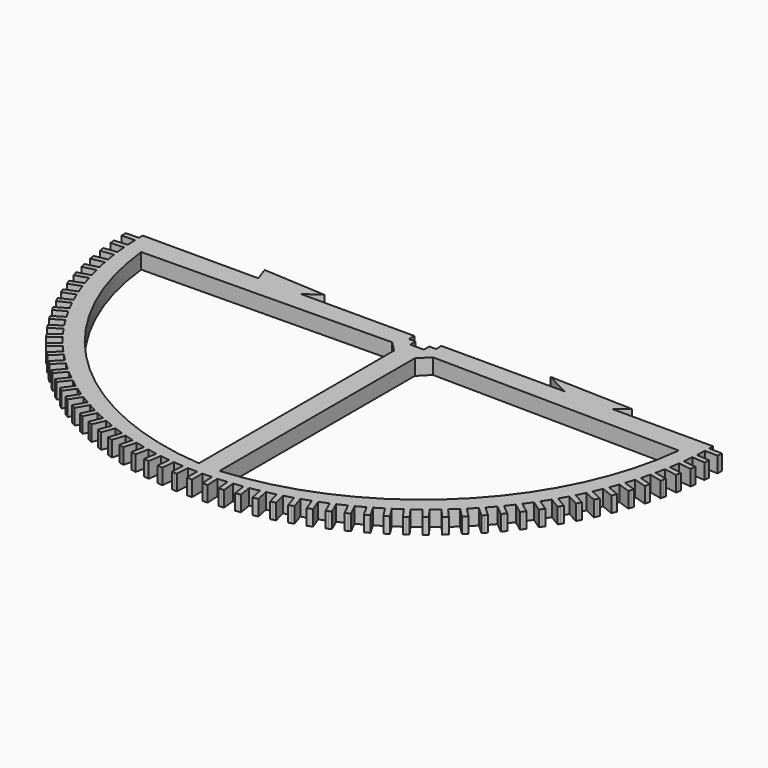
from build123d import *

# Parameters (mm, degrees)
F1_DEPTH = 3


with BuildPart() as f1:
    # F0 (on Top) → F1 (new body)
    with BuildSketch(Plane.XY):
        with BuildLine():
            Line((-54.992368, 0), (-54.992368, -0.916242))
            ThreePointArc((-54.992368, -0.916242), (-54.981766, -1.416135), (-54.96662, -1.915911))
            ThreePointArc((-54.96662, -1.915911), (-54.927075, -2.831332), (-54.872286, -3.745966))
            ThreePointArc((-54.872286, -3.745966), (-54.835964, -4.24465), (-54.79511, -4.742984))
            ThreePointArc((-54.79511, -4.742984), (-54.708493, -5.655155), (-54.606692, -6.565756))
            ThreePointArc((-54.606692, -6.565756), (-54.544747, -7.06191), (-54.478294, -7.557479))
            ThreePointArc((-54.478294, -7.557479), (-54.344834, -8.463982), (-54.196292, -9.368135))
            ThreePointArc((-54.196292, -9.368135), (-54.108887, -9.860442), (-54.017011, -10.351933))
            ThreePointArc((-54.017011, -10.351933), (-53.837063, -11.250364), (-53.642172, -12.145672))
            ThreePointArc((-53.642172, -12.145672), (-53.529541, -12.632826), (-53.412485, -13.118936))
            ThreePointArc((-53.412485, -13.118936), (-53.186525, -14.006912), (-52.945804, -14.891))
            ThreePointArc((-52.945804, -14.891), (-52.808243, -15.37171), (-52.666318, -15.85115))
            ThreePointArc((-52.666318, -15.85115), (-52.394946, -16.726316), (-52.109032, -17.59684))
            ThreePointArc((-52.109032, -17.59684), (-51.946908, -18.069831), (-51.78049, -18.541329))
            ThreePointArc((-51.78049, -18.541329), (-51.464425, -19.401365), (-51.134077, -20.256016))
            ThreePointArc((-51.134077, -20.256016), (-50.947818, -20.720034), (-50.757349, -21.18234))
            ThreePointArc((-50.757349, -21.18234), (-50.39743, -22.024965), (-50.023523, -22.861477))
            ThreePointArc((-50.023523, -22.861477), (-49.813624, -23.315291), (-49.599609, -23.767179))
            ThreePointArc((-49.599609, -23.767179), (-49.19679, -24.590159), (-48.780316, -25.406313))
            ThreePointArc((-48.780316, -25.406313), (-48.547334, -25.848721), (-48.310339, -26.288992))
            ThreePointArc((-48.310339, -26.288992), (-47.865688, -27.090144), (-47.407752, -27.883777))
            ThreePointArc((-47.407752, -27.883777), (-47.152305, -28.313604), (-46.89296, -28.741091))
            ThreePointArc((-46.89296, -28.741091), (-46.407656, -29.518291), (-45.909472, -30.287297))
            ThreePointArc((-45.909472, -30.287297), (-45.632236, -30.703405), (-45.351228, -31.116974))
            ThreePointArc((-45.351228, -31.116974), (-44.826559, -31.86816), (-44.289448, -32.610502))
            ThreePointArc((-44.289448, -32.610502), (-43.991158, -33.011785), (-43.689233, -33.410341))
            ThreePointArc((-43.689233, -33.410341), (-43.126589, -34.133522), (-42.551976, -34.847229))
            ThreePointArc((-42.551976, -34.847229), (-42.233425, -35.232625), (-41.911383, -35.615109))
            ThreePointArc((-41.911383, -35.615109), (-41.312256, -36.308367), (-40.701664, -36.991547))
            ThreePointArc((-40.701664, -36.991547), (-40.363695, -37.360034), (-40.022391, -37.725432))
            ThreePointArc((-40.022391, -37.725432), (-39.38837, -38.386929), (-38.743418, -39.037771))
            ThreePointArc((-38.743418, -39.037771), (-38.386929, -39.38837), (-38.027266, -39.735715))
            ThreePointArc((-38.027266, -39.735715), (-37.360034, -40.363695), (-36.682432, -40.980473))
            ThreePointArc((-36.682432, -40.980473), (-36.308367, -41.312256), (-35.9313, -41.640625))
            ThreePointArc((-35.9313, -41.640625), (-35.232625, -42.233425), (-34.524171, -42.814502))
            ThreePointArc((-34.524171, -42.814502), (-34.133522, -43.126589), (-33.740051, -43.435112))
            ThreePointArc((-33.740051, -43.435112), (-33.011785, -43.991158), (-32.274358, -44.534996))
            ThreePointArc((-32.274358, -44.534996), (-31.86816, -44.826559), (-31.459329, -45.114417))
            ThreePointArc((-31.459329, -45.114417), (-30.703405, -45.632236), (-29.938959, -46.13739))
            ThreePointArc((-29.938959, -46.13739), (-29.518291, -46.407656), (-29.095183, -46.674086))
            ThreePointArc((-29.095183, -46.674086), (-28.313604, -47.152305), (-27.524167, -47.617436))
            ThreePointArc((-27.524167, -47.617436), (-27.090144, -47.865688), (-26.653882, -48.109984))
            ThreePointArc((-26.653882, -48.109984), (-25.848721, -48.547334), (-25.036386, -48.97121))
            ThreePointArc((-25.036386, -48.97121), (-24.590159, -49.19679), (-24.141899, -49.418303))
            ThreePointArc((-24.141899, -49.418303), (-23.315291, -49.813624), (-22.482213, -50.19512))
            ThreePointArc((-22.482213, -50.19512), (-22.024965, -50.39743), (-21.565896, -50.595574))
            ThreePointArc((-21.565896, -50.595574), (-20.720034, -50.947818), (-19.868421, -51.285922))
            ThreePointArc((-19.868421, -51.285922), (-19.401365, -51.464425), (-18.932705, -51.638674))
            ThreePointArc((-18.932705, -51.638674), (-18.069831, -51.946908), (-17.201942, -52.240723))
            ThreePointArc((-17.201942, -52.240723), (-16.726316, -52.394946), (-16.249307, -52.544838))
            ThreePointArc((-16.249307, -52.544838), (-15.37171, -52.808243), (-14.489847, -53.056991))
            ThreePointArc((-14.489847, -53.056991), (-14.006912, -53.186525), (-13.522819, -53.311663))
            ThreePointArc((-13.522819, -53.311663), (-12.632826, -53.529541), (-11.739327, -53.732562))
            ThreePointArc((-11.739327, -53.732562), (-11.250364, -53.837063), (-10.760471, -53.937114))
            ThreePointArc((-10.760471, -53.937114), (-9.860442, -54.108887), (-8.957676, -54.265643))
            ThreePointArc((-8.957676, -54.265643), (-8.463982, -54.344834), (-7.969588, -54.419534))
            ThreePointArc((-7.969588, -54.419534), (-7.06191, -54.544747), (-6.152271, -54.654822))
            ThreePointArc((-6.152271, -54.654822), (-5.655155, -54.708493), (-5.157571, -54.757643))
            ThreePointArc((-5.157571, -54.757643), (-4.24465, -54.835964), (-3.330552, -54.899066))
            ThreePointArc((-3.330552, -54.899066), (-2.831332, -54.927075), (-2.331877, -54.950545))
            ThreePointArc((-2.331877, -54.950545), (-1.416135, -54.981766), (-0.5, -54.997727))
            ThreePointArc((-0.5, -54.997727), (0, -55), (0.5, -54.997727))
            ThreePointArc((0.5, -54.997727), (1.416135, -54.981766), (2.331877, -54.950545))
            ThreePointArc((2.331877, -54.950545), (2.831332, -54.927075), (3.330552, -54.899066))
            ThreePointArc((3.330552, -54.899066), (4.24465, -54.835964), (5.157571, -54.757643))
            ThreePointArc((5.157571, -54.757643), (5.655155, -54.708493), (6.152271, -54.654822))
            ThreePointArc((6.152271, -54.654822), (7.06191, -54.544747), (7.969588, -54.419534))
            ThreePointArc((7.969588, -54.419534), (8.463982, -54.344834), (8.957676, -54.265643))
            ThreePointArc((8.957676, -54.265643), (9.860442, -54.108887), (10.760471, -53.937114))
            ThreePointArc((10.760471, -53.937114), (11.250364, -53.837063), (11.739327, -53.732562))
            ThreePointArc((11.739327, -53.732562), (12.632826, -53.529541), (13.522819, -53.311663))
            ThreePointArc((13.522819, -53.311663), (14.006912, -53.186525), (14.489847, -53.056991))
            ThreePointArc((14.489847, -53.056991), (15.37171, -52.808243), (16.249307, -52.544838))
            ThreePointArc((16.249307, -52.544838), (16.726316, -52.394946), (17.201942, -52.240723))
            ThreePointArc((17.201942, -52.240723), (18.069831, -51.946908), (18.932705, -51.638674))
            ThreePointArc((18.932705, -51.638674), (19.401365, -51.464425), (19.868421, -51.285922))
            ThreePointArc((19.868421, -51.285922), (20.720034, -50.947818), (21.565896, -50.595574))
            ThreePointArc((21.565896, -50.595574), (22.024965, -50.39743), (22.482213, -50.19512))
            ThreePointArc((22.482213, -50.19512), (23.315291, -49.813624), (24.141899, -49.418303))
            ThreePointArc((24.141899, -49.418303), (24.590159, -49.19679), (25.036386, -48.97121))
            ThreePointArc((25.036386, -48.97121), (25.848721, -48.547334), (26.653882, -48.109984))
            ThreePointArc((26.653882, -48.109984), (27.090144, -47.865688), (27.524167, -47.617436))
            ThreePointArc((27.524167, -47.617436), (28.313604, -47.152305), (29.095183, -46.674086))
            ThreePointArc((29.095183, -46.674086), (29.518291, -46.407656), (29.938959, -46.13739))
            ThreePointArc((29.938959, -46.13739), (30.703405, -45.632236), (31.459329, -45.114417))
            ThreePointArc((31.459329, -45.114417), (31.86816, -44.826559), (32.274358, -44.534996))
            ThreePointArc((32.274358, -44.534996), (33.011785, -43.991158), (33.740051, -43.435112))
            ThreePointArc((33.740051, -43.435112), (34.133522, -43.126589), (34.524171, -42.814502))
            ThreePointArc((34.524171, -42.814502), (35.232625, -42.233425), (35.9313, -41.640625))
            ThreePointArc((35.9313, -41.640625), (36.308367, -41.312256), (36.682432, -40.980473))
            ThreePointArc((36.682432, -40.980473), (37.360034, -40.363695), (38.027266, -39.735715))
            ThreePointArc((38.027266, -39.735715), (38.386929, -39.38837), (38.743418, -39.037771))
            ThreePointArc((38.743418, -39.037771), (39.38837, -38.386929), (40.022391, -37.725432))
            ThreePointArc((40.022391, -37.725432), (40.363695, -37.360034), (40.701664, -36.991547))
            ThreePointArc((40.701664, -36.991547), (41.312256, -36.308367), (41.911383, -35.615109))
            ThreePointArc((41.911383, -35.615109), (42.233425, -35.232625), (42.551976, -34.847229))
            ThreePointArc((42.551976, -34.847229), (43.126589, -34.133522), (43.689233, -33.410341))
            ThreePointArc((43.689233, -33.410341), (43.991158, -33.011785), (44.289448, -32.610502))
            ThreePointArc((44.289448, -32.610502), (44.826559, -31.86816), (45.351228, -31.116974))
            ThreePointArc((45.351228, -31.116974), (45.632236, -30.703405), (45.909472, -30.287297))
            ThreePointArc((45.909472, -30.287297), (46.407656, -29.518291), (46.89296, -28.741091))
            ThreePointArc((46.89296, -28.741091), (47.152305, -28.313604), (47.407752, -27.883777))
            ThreePointArc((47.407752, -27.883777), (47.865688, -27.090144), (48.310339, -26.288992))
            ThreePointArc((48.310339, -26.288992), (48.547334, -25.848721), (48.780316, -25.406313))
            ThreePointArc((48.780316, -25.406313), (49.19679, -24.590159), (49.599609, -23.767179))
            ThreePointArc((49.599609, -23.767179), (49.813624, -23.315291), (50.023523, -22.861477))
            ThreePointArc((50.023523, -22.861477), (50.39743, -22.024965), (50.757349, -21.18234))
            ThreePointArc((50.757349, -21.18234), (50.947818, -20.720034), (51.134077, -20.256016))
            ThreePointArc((51.134077, -20.256016), (51.464425, -19.401365), (51.78049, -18.541329))
            ThreePointArc((51.78049, -18.541329), (51.946908, -18.069831), (52.109032, -17.59684))
            ThreePointArc((52.109032, -17.59684), (52.394946, -16.726316), (52.666318, -15.85115))
            ThreePointArc((52.666318, -15.85115), (52.808243, -15.37171), (52.945804, -14.891))
            ThreePointArc((52.945804, -14.891), (53.186525, -14.006912), (53.412485, -13.118936))
            ThreePointArc((53.412485, -13.118936), (53.529541, -12.632826), (53.642172, -12.145672))
            ThreePointArc((53.642172, -12.145672), (53.837063, -11.250364), (54.017011, -10.351933))
            ThreePointArc((54.017011, -10.351933), (54.108887, -9.860442), (54.196292, -9.368135))
            ThreePointArc((54.196292, -9.368135), (54.344834, -8.463982), (54.478294, -7.557479))
            ThreePointArc((54.478294, -7.557479), (54.544747, -7.06191), (54.606692, -6.565756))
            ThreePointArc((54.606692, -6.565756), (54.708493, -5.655155), (54.79511, -4.742984))
            ThreePointArc((54.79511, -4.742984), (54.835964, -4.24465), (54.872286, -3.745966))
            ThreePointArc((54.872286, -3.745966), (54.927075, -2.831332), (54.96662, -1.915911))
            ThreePointArc((54.96662, -1.915911), (54.981766, -1.416135), (54.992368, -0.916242))
            Line((54.992368, -0.916242), (54.992368, 0))
            Line((54.992368, 0), (35.677649, 0))
            Line((35.677649, 0), (37.876233, 1.864971))
            Line((37.876233, 1.864971), (21.753281, 2.377975))
            Line((21.753281, 2.377975), (26.367193, 0))
            Line((26.367193, 0), (2.6, 0))
            Line((2.6, 0), (2.6, -1.3))
            Line((2.6, -1.3), (1.3, -1.3))
            Line((1.3, -1.3), (1.3, -2.6))
            Line((1.3, -2.6), (0, -2.6))
            Line((0, -2.6), (-1.3, -2.6))
            Line((-1.3, -2.6), (-1.3, -1.3))
            Line((-1.3, -1.3), (-2.6, -1.3))
            Line((-2.6, -1.3), (-2.6, 0))
            Line((-2.6, 0), (-24.52006, 0))
            Line((-24.52006, 0), (-21.556878, 2.011633))
            Line((-21.556878, 2.011633), (-33.671062, 2.708852))
            Line((-33.671062, 2.708852), (-32.704696, 0))
            Line((-32.704696, 0), (-51.959351, 0))
            Line((-51.959351, 0), (-54.992368, 0))
        make_face()
        with BuildLine():
            Line((-51.831243, -4.329649), (-3.923441, -3.704175))
            Line((-3.923441, -3.704175), (-2, -5.659299))
            Line((-2, -5.659299), (-2, -50.710741))
            Line((-2, -50.710741), (-2, -52.710741))
            ThreePointArc((-2, -52.710741), (-35.634209, -37.500109), (-51.831243, -4.329649))
        make_face(mode=Mode.SUBTRACT)
        with BuildLine():
            Line((2, -5.659299), (3.923441, -3.704175))
            Line((3.923441, -3.704175), (51.831243, -4.329649))
            ThreePointArc((51.831243, -4.329649), (35.634209, -37.500109), (2, -52.710741))
            Line((2, -52.710741), (2, -50.710741))
            Line((2, -50.710741), (2, -5.659299))
        make_face(mode=Mode.SUBTRACT)
        with BuildLine():
            ThreePointArc((-54.96662, -1.915911), (-54.981766, -1.416135), (-54.992368, -0.916242))
            Line((-54.992368, -0.916242), (-57.493811, -0.980671))
            Line((-57.493811, -0.980671), (-57.480937, -1.480505))
            Line((-57.480937, -1.480505), (-57.468063, -1.980339))
            Line((-57.468063, -1.980339), (-54.96662, -1.915911))
        make_face()
        with BuildLine():
            ThreePointArc((-54.79511, -4.742984), (-54.835964, -4.24465), (-54.872286, -3.745966))
            Line((-54.872286, -3.745966), (-57.367096, -3.93908))
            Line((-57.367096, -3.93908), (-57.328508, -4.437589))
            Line((-57.328508, -4.437589), (-57.28992, -4.936098))
            Line((-57.28992, -4.936098), (-54.79511, -4.742984))
        make_face()
        with BuildLine():
            ThreePointArc((-54.478294, -7.557479), (-54.544747, -7.06191), (-54.606692, -6.565756))
            Line((-54.606692, -6.565756), (-57.088253, -6.887044))
            Line((-57.088253, -6.887044), (-57.024054, -7.382905))
            Line((-57.024054, -7.382905), (-56.959855, -7.878767))
            Line((-56.959855, -7.878767), (-54.478294, -7.557479))
        make_face()
        with BuildLine():
            ThreePointArc((-54.017011, -10.351933), (-54.108887, -9.860442), (-54.196292, -9.368135))
            Line((-54.196292, -9.368135), (-56.658023, -9.816745))
            Line((-56.658023, -9.816745), (-56.568382, -10.308644))
            Line((-56.568382, -10.308644), (-56.478742, -10.800543))
            Line((-56.478742, -10.800543), (-54.017011, -10.351933))
        make_face()
        with BuildLine():
            ThreePointArc((-53.412485, -13.118936), (-53.529541, -12.632826), (-53.642172, -12.145672))
            Line((-53.642172, -12.145672), (-56.077545, -12.720413))
            Line((-56.077545, -12.720413), (-55.962701, -13.207045))
            Line((-55.962701, -13.207045), (-55.847858, -13.693677))
            Line((-55.847858, -13.693677), (-53.412485, -13.118936))
        make_face()
        with BuildLine():
            ThreePointArc((-52.666318, -15.85115), (-52.808243, -15.37171), (-52.945804, -14.891))
            Line((-52.945804, -14.891), (-55.348361, -15.590349))
            Line((-55.348361, -15.590349), (-55.208618, -16.070424))
            Line((-55.208618, -16.070424), (-55.068875, -16.550499))
            Line((-55.068875, -16.550499), (-52.666318, -15.85115))
        make_face()
        with BuildLine():
            ThreePointArc((-51.78049, -18.541329), (-51.946908, -18.069831), (-52.109032, -17.59684))
            Line((-52.109032, -17.59684), (-54.472402, -18.418942))
            Line((-54.472402, -18.418942), (-54.308131, -18.891187))
            Line((-54.308131, -18.891187), (-54.143859, -19.363432))
            Line((-54.143859, -19.363432), (-51.78049, -18.541329))
        make_face()
        with BuildLine():
            ThreePointArc((-50.757349, -21.18234), (-50.947818, -20.720034), (-51.134077, -20.256016))
            Line((-51.134077, -20.256016), (-53.451992, -21.198692))
            Line((-53.451992, -21.198692), (-53.263628, -21.661854))
            Line((-53.263628, -21.661854), (-53.075264, -22.125016))
            Line((-53.075264, -22.125016), (-50.757349, -21.18234))
        make_face()
        with BuildLine():
            ThreePointArc((-49.599609, -23.767179), (-49.813624, -23.315291), (-50.023523, -22.861477))
            Line((-50.023523, -22.861477), (-52.289837, -23.922226))
            Line((-52.289837, -23.922226), (-52.07788, -24.375077))
            Line((-52.07788, -24.375077), (-51.865923, -24.827929))
            Line((-51.865923, -24.827929), (-49.599609, -23.767179))
        make_face()
        with BuildLine():
            ThreePointArc((-48.310339, -26.288992), (-48.547334, -25.848721), (-48.780316, -25.406313))
            Line((-48.780316, -25.406313), (-50.989019, -26.582323))
            Line((-50.989019, -26.582323), (-50.754031, -27.023663))
            Line((-50.754031, -27.023663), (-50.519043, -27.465002))
            Line((-50.519043, -27.465002), (-48.310339, -26.288992))
        make_face()
        with BuildLine():
            ThreePointArc((-46.89296, -28.741091), (-47.152305, -28.313604), (-47.407752, -27.883777))
            Line((-47.407752, -27.883777), (-49.552988, -29.171929))
            Line((-49.552988, -29.171929), (-49.295591, -29.600586))
            Line((-49.295591, -29.600586), (-49.038195, -30.029243))
            Line((-49.038195, -30.029243), (-46.89296, -28.741091))
        make_face()
        with BuildLine():
            Line((57.493811, -0.980671), (54.992368, -0.916242))
            ThreePointArc((54.992368, -0.916242), (54.981766, -1.416135), (54.96662, -1.915911))
            Line((54.96662, -1.915911), (57.468063, -1.980339))
            Line((57.468063, -1.980339), (57.480937, -1.480505))
            Line((57.480937, -1.480505), (57.493811, -0.980671))
        make_face()
        with BuildLine():
            ThreePointArc((-45.351228, -31.116974), (-45.632236, -30.703405), (-45.909472, -30.287297))
            Line((-45.909472, -30.287297), (-47.98555, -31.684176))
            Line((-47.98555, -31.684176), (-47.706428, -32.099014))
            Line((-47.706428, -32.099014), (-47.427306, -32.513853))
            Line((-47.427306, -32.513853), (-45.351228, -31.116974))
        make_face()
        with BuildLine():
            Line((57.367096, -3.93908), (54.872286, -3.745966))
            ThreePointArc((54.872286, -3.745966), (54.835964, -4.24465), (54.79511, -4.742984))
            Line((54.79511, -4.742984), (57.28992, -4.936098))
            Line((57.28992, -4.936098), (57.328508, -4.437589))
            Line((57.328508, -4.437589), (57.367096, -3.93908))
        make_face()
        with BuildLine():
            ThreePointArc((-43.689233, -33.410341), (-43.991158, -33.011785), (-44.289448, -32.610502))
            Line((-44.289448, -32.610502), (-46.290864, -34.112402))
            Line((-46.290864, -34.112402), (-45.990757, -34.512321))
            Line((-45.990757, -34.512321), (-45.690649, -34.912241))
            Line((-45.690649, -34.912241), (-43.689233, -33.410341))
        make_face()
        with BuildLine():
            Line((57.088253, -6.887044), (54.606692, -6.565756))
            ThreePointArc((54.606692, -6.565756), (54.544747, -7.06191), (54.478294, -7.557479))
            Line((54.478294, -7.557479), (56.959855, -7.878767))
            Line((56.959855, -7.878767), (57.024054, -7.382905))
            Line((57.024054, -7.382905), (57.088253, -6.887044))
        make_face()
        with BuildLine():
            ThreePointArc((-41.911383, -35.615109), (-42.233425, -35.232625), (-42.551976, -34.847229))
            Line((-42.551976, -34.847229), (-44.473422, -36.450168))
            Line((-44.473422, -36.450168), (-44.153126, -36.834108))
            Line((-44.153126, -36.834108), (-43.832829, -37.218048))
            Line((-43.832829, -37.218048), (-41.911383, -35.615109))
        make_face()
        with BuildLine():
            Line((56.658023, -9.816745), (54.196292, -9.368135))
            ThreePointArc((54.196292, -9.368135), (54.108887, -9.860442), (54.017011, -10.351933))
            Line((54.017011, -10.351933), (56.478742, -10.800543))
            Line((56.478742, -10.800543), (56.568382, -10.308644))
            Line((56.568382, -10.308644), (56.658023, -9.816745))
        make_face()
        with BuildLine():
            ThreePointArc((-40.022391, -37.725432), (-40.363695, -37.360034), (-40.701664, -36.991547))
            Line((-40.701664, -36.991547), (-42.538045, -38.691274))
            Line((-42.538045, -38.691274), (-42.198409, -39.058217))
            Line((-42.198409, -39.058217), (-41.858772, -39.42516))
            Line((-41.858772, -39.42516), (-40.022391, -37.725432))
        make_face()
        with BuildLine():
            Line((56.077545, -12.720413), (53.642172, -12.145672))
            ThreePointArc((53.642172, -12.145672), (53.529541, -12.632826), (53.412485, -13.118936))
            Line((53.412485, -13.118936), (55.847858, -13.693677))
            Line((55.847858, -13.693677), (55.962701, -13.207045))
            Line((55.962701, -13.207045), (56.077545, -12.720413))
        make_face()
        with BuildLine():
            ThreePointArc((-38.027266, -39.735715), (-38.386929, -39.38837), (-38.743418, -39.037771))
            Line((-38.743418, -39.037771), (-40.489865, -40.829779))
            Line((-40.489865, -40.829779), (-40.131789, -41.178751))
            Line((-40.131789, -41.178751), (-39.773713, -41.527723))
            Line((-39.773713, -41.527723), (-38.027266, -39.735715))
        make_face()
        with BuildLine():
            Line((55.348361, -15.590349), (52.945804, -14.891))
            ThreePointArc((52.945804, -14.891), (52.808243, -15.37171), (52.666318, -15.85115))
            Line((52.666318, -15.85115), (55.068875, -16.550499))
            Line((55.068875, -16.550499), (55.208618, -16.070424))
            Line((55.208618, -16.070424), (55.348361, -15.590349))
        make_face()
        with BuildLine():
            ThreePointArc((-35.9313, -41.640625), (-36.308367, -41.312256), (-36.682432, -40.980473))
            Line((-36.682432, -40.980473), (-38.334313, -42.86001))
            Line((-38.334313, -42.86001), (-37.958747, -43.190086))
            Line((-37.958747, -43.190086), (-37.583181, -43.520162))
            Line((-37.583181, -43.520162), (-35.9313, -41.640625))
        make_face()
        with BuildLine():
            Line((54.472402, -18.418942), (52.109032, -17.59684))
            ThreePointArc((52.109032, -17.59684), (51.946908, -18.069831), (51.78049, -18.541329))
            Line((51.78049, -18.541329), (54.143859, -19.363432))
            Line((54.143859, -19.363432), (54.308131, -18.891187))
            Line((54.308131, -18.891187), (54.472402, -18.418942))
        make_face()
        with BuildLine():
            ThreePointArc((-33.740051, -43.435112), (-34.133522, -43.126589), (-34.524171, -42.814502))
            Line((-34.524171, -42.814502), (-36.077105, -44.776584))
            Line((-36.077105, -44.776584), (-35.685045, -45.086889))
            Line((-35.685045, -45.086889), (-35.292985, -45.397194))
            Line((-35.292985, -45.397194), (-33.740051, -43.435112))
        make_face()
        with BuildLine():
            Line((53.451992, -21.198692), (51.134077, -20.256016))
            ThreePointArc((51.134077, -20.256016), (50.947818, -20.720034), (50.757349, -21.18234))
            Line((50.757349, -21.18234), (53.075264, -22.125016))
            Line((53.075264, -22.125016), (53.263628, -21.661854))
            Line((53.263628, -21.661854), (53.451992, -21.198692))
        make_face()
        with BuildLine():
            ThreePointArc((-31.459329, -45.114417), (-31.86816, -44.826559), (-32.274358, -44.534996))
            Line((-32.274358, -44.534996), (-33.724227, -46.574419))
            Line((-33.724227, -46.574419), (-33.316713, -46.864129))
            Line((-33.316713, -46.864129), (-32.909199, -47.15384))
            Line((-32.909199, -47.15384), (-31.459329, -45.114417))
        make_face()
        with BuildLine():
            Line((52.289837, -23.922226), (50.023523, -22.861477))
            ThreePointArc((50.023523, -22.861477), (49.813624, -23.315291), (49.599609, -23.767179))
            Line((49.599609, -23.767179), (51.865923, -24.827929))
            Line((51.865923, -24.827929), (52.07788, -24.375077))
            Line((52.07788, -24.375077), (52.289837, -23.922226))
        make_face()
        with BuildLine():
            ThreePointArc((-29.095183, -46.674086), (-29.518291, -46.407656), (-29.938959, -46.13739))
            Line((-29.938959, -46.13739), (-31.281919, -48.248747))
            Line((-31.281919, -48.248747), (-30.860031, -48.517095))
            Line((-30.860031, -48.517095), (-30.438143, -48.785443))
            Line((-30.438143, -48.785443), (-29.095183, -46.674086))
        make_face()
        with BuildLine():
            Line((50.989019, -26.582323), (48.780316, -25.406313))
            ThreePointArc((48.780316, -25.406313), (48.547334, -25.848721), (48.310339, -26.288992))
            Line((48.310339, -26.288992), (50.519043, -27.465002))
            Line((50.519043, -27.465002), (50.754031, -27.023663))
            Line((50.754031, -27.023663), (50.989019, -26.582323))
        make_face()
        with BuildLine():
            ThreePointArc((-26.653882, -48.109984), (-27.090144, -47.865688), (-27.524167, -47.617436))
            Line((-27.524167, -47.617436), (-28.756657, -49.795127))
            Line((-28.756657, -49.795127), (-28.321514, -50.041401))
            Line((-28.321514, -50.041401), (-27.886371, -50.287675))
            Line((-27.886371, -50.287675), (-26.653882, -48.109984))
        make_face()
        with BuildLine():
            Line((49.552988, -29.171929), (47.407752, -27.883777))
            ThreePointArc((47.407752, -27.883777), (47.152305, -28.313604), (46.89296, -28.741091))
            Line((46.89296, -28.741091), (49.038195, -30.029243))
            Line((49.038195, -30.029243), (49.295591, -29.600586))
            Line((49.295591, -29.600586), (49.552988, -29.171929))
        make_face()
        with BuildLine():
            ThreePointArc((-24.141899, -49.418303), (-24.590159, -49.19679), (-25.036386, -48.97121))
            Line((-25.036386, -48.97121), (-26.155137, -51.20946))
            Line((-26.155137, -51.20946), (-25.707893, -51.433007))
            Line((-25.707893, -51.433007), (-25.26065, -51.656554))
            Line((-25.26065, -51.656554), (-24.141899, -49.418303))
        make_face()
        with BuildLine():
            Line((47.98555, -31.684176), (45.909472, -30.287297))
            ThreePointArc((45.909472, -30.287297), (45.632236, -30.703405), (45.351228, -31.116974))
            Line((45.351228, -31.116974), (47.427306, -32.513853))
            Line((47.427306, -32.513853), (47.706428, -32.099014))
            Line((47.706428, -32.099014), (47.98555, -31.684176))
        make_face()
        with BuildLine():
            ThreePointArc((-21.565896, -50.595574), (-22.024965, -50.39743), (-22.482213, -50.19512))
            Line((-22.482213, -50.19512), (-23.484258, -52.487995))
            Line((-23.484258, -52.487995), (-23.0261, -52.688222))
            Line((-23.0261, -52.688222), (-22.567941, -52.888449))
            Line((-22.567941, -52.888449), (-21.565896, -50.595574))
        make_face()
        with BuildLine():
            Line((46.290864, -34.112402), (44.289448, -32.610502))
            ThreePointArc((44.289448, -32.610502), (43.991158, -33.011785), (43.689233, -33.410341))
            Line((43.689233, -33.410341), (45.690649, -34.912241))
            Line((45.690649, -34.912241), (45.990757, -34.512321))
            Line((45.990757, -34.512321), (46.290864, -34.112402))
        make_face()
        with BuildLine():
            ThreePointArc((-18.932705, -51.638674), (-19.401365, -51.464425), (-19.868421, -51.285922))
            Line((-19.868421, -51.285922), (-20.751103, -53.627341))
            Line((-20.751103, -53.627341), (-20.283245, -53.803717))
            Line((-20.283245, -53.803717), (-19.815387, -53.980093))
            Line((-19.815387, -53.980093), (-18.932705, -51.638674))
        make_face()
        with BuildLine():
            Line((44.473422, -36.450168), (42.551976, -34.847229))
            ThreePointArc((42.551976, -34.847229), (42.233425, -35.232625), (41.911383, -35.615109))
            Line((41.911383, -35.615109), (43.832829, -37.218048))
            Line((43.832829, -37.218048), (44.153126, -36.834108))
            Line((44.153126, -36.834108), (44.473422, -36.450168))
        make_face()
        with BuildLine():
            ThreePointArc((-16.249307, -52.544838), (-16.726316, -52.394946), (-17.201942, -52.240723))
            Line((-17.201942, -52.240723), (-17.962921, -54.624477))
            Line((-17.962921, -54.624477), (-17.486603, -54.776534))
            Line((-17.486603, -54.776534), (-17.010285, -54.928592))
            Line((-17.010285, -54.928592), (-16.249307, -52.544838))
        make_face()
        with BuildLine():
            Line((42.538045, -38.691274), (40.701664, -36.991547))
            ThreePointArc((40.701664, -36.991547), (40.363695, -37.360034), (40.022391, -37.725432))
            Line((40.022391, -37.725432), (41.858772, -39.42516))
            Line((41.858772, -39.42516), (42.198409, -39.058217))
            Line((42.198409, -39.058217), (42.538045, -38.691274))
        make_face()
        with BuildLine():
            ThreePointArc((-13.522819, -53.311663), (-14.006912, -53.186525), (-14.489847, -53.056991))
            Line((-14.489847, -53.056991), (-15.127103, -55.476759))
            Line((-15.127103, -55.476759), (-14.643589, -55.604094))
            Line((-14.643589, -55.604094), (-14.160076, -55.73143))
            Line((-14.160076, -55.73143), (-13.522819, -53.311663))
        make_face()
        with BuildLine():
            Line((40.489865, -40.829779), (38.743418, -39.037771))
            ThreePointArc((38.743418, -39.037771), (38.386929, -39.38837), (38.027266, -39.735715))
            Line((38.027266, -39.735715), (39.773713, -41.527723))
            Line((39.773713, -41.527723), (40.131789, -41.178751))
            Line((40.131789, -41.178751), (40.489865, -40.829779))
        make_face()
        with BuildLine():
            ThreePointArc((-10.760471, -53.937114), (-11.250364, -53.837063), (-11.739327, -53.732562))
            Line((-11.739327, -53.732562), (-12.251172, -56.181926))
            Line((-12.251172, -56.181926), (-11.761744, -56.284202))
            Line((-11.761744, -56.284202), (-11.272316, -56.386478))
            Line((-11.272316, -56.386478), (-10.760471, -53.937114))
        make_face()
        with BuildLine():
            Line((38.334313, -42.86001), (36.682432, -40.980473))
            ThreePointArc((36.682432, -40.980473), (36.308367, -41.312256), (35.9313, -41.640625))
            Line((35.9313, -41.640625), (37.583181, -43.520162))
            Line((37.583181, -43.520162), (37.958747, -43.190086))
            Line((37.958747, -43.190086), (38.334313, -42.86001))
        make_face()
        with BuildLine():
            ThreePointArc((-7.969588, -54.419534), (-8.463982, -54.344834), (-8.957676, -54.265643))
            Line((-8.957676, -54.265643), (-9.342752, -56.738109))
            Line((-9.342752, -56.738109), (-8.848708, -56.815054))
            Line((-8.848708, -56.815054), (-8.354664, -56.891999))
            Line((-8.354664, -56.891999), (-7.969588, -54.419534))
        make_face()
        with BuildLine():
            Line((36.077105, -44.776584), (34.524171, -42.814502))
            ThreePointArc((34.524171, -42.814502), (34.133522, -43.126589), (33.740051, -43.435112))
            Line((33.740051, -43.435112), (35.292985, -45.397194))
            Line((35.292985, -45.397194), (35.685045, -45.086889))
            Line((35.685045, -45.086889), (36.077105, -44.776584))
        make_face()
        with BuildLine():
            ThreePointArc((-5.157571, -54.757643), (-5.655155, -54.708493), (-6.152271, -54.654822))
            Line((-6.152271, -54.654822), (-6.409557, -57.143832))
            Line((-6.409557, -57.143832), (-5.912207, -57.195243))
            Line((-5.912207, -57.195243), (-5.414857, -57.246653))
            Line((-5.414857, -57.246653), (-5.157571, -54.757643))
        make_face()
        with BuildLine():
            Line((33.724227, -46.574419), (32.274358, -44.534996))
            ThreePointArc((32.274358, -44.534996), (31.86816, -44.826559), (31.459329, -45.114417))
            Line((31.459329, -45.114417), (32.909199, -47.15384))
            Line((32.909199, -47.15384), (33.316713, -46.864129))
            Line((33.316713, -46.864129), (33.724227, -46.574419))
        make_face()
        with BuildLine():
            ThreePointArc((-2.331877, -54.950545), (-2.831332, -54.927075), (-3.330552, -54.899066))
            Line((-3.330552, -54.899066), (-3.459365, -57.398021))
            Line((-3.459365, -57.398021), (-2.960028, -57.42376))
            Line((-2.960028, -57.42376), (-2.460691, -57.4495))
            Line((-2.460691, -57.4495), (-2.331877, -54.950545))
        make_face()
        with BuildLine():
            Line((31.281919, -48.248747), (29.938959, -46.13739))
            ThreePointArc((29.938959, -46.13739), (29.518291, -46.407656), (29.095183, -46.674086))
            Line((29.095183, -46.674086), (30.438143, -48.785443))
            Line((30.438143, -48.785443), (30.860031, -48.517095))
            Line((30.860031, -48.517095), (31.281919, -48.248747))
        make_face()
        with BuildLine():
            ThreePointArc((0.5, -54.997727), (0, -55), (-0.5, -54.997727))
            Line((-0.5, -54.997727), (-0.5, -57.5))
            Line((-0.5, -57.5), (0, -57.5))
            Line((0, -57.5), (0.5, -57.5))
            Line((0.5, -57.5), (0.5, -54.997727))
        make_face()
        with BuildLine():
            Line((28.756657, -49.795127), (27.524167, -47.617436))
            ThreePointArc((27.524167, -47.617436), (27.090144, -47.865688), (26.653882, -48.109984))
            Line((26.653882, -48.109984), (27.886371, -50.287675))
            Line((27.886371, -50.287675), (28.321514, -50.041401))
            Line((28.321514, -50.041401), (28.756657, -49.795127))
        make_face()
        with BuildLine():
            ThreePointArc((3.330552, -54.899066), (2.831332, -54.927075), (2.331877, -54.950545))
            Line((2.331877, -54.950545), (2.460691, -57.4495))
            Line((2.460691, -57.4495), (2.960028, -57.42376))
            Line((2.960028, -57.42376), (3.459365, -57.398021))
            Line((3.459365, -57.398021), (3.330552, -54.899066))
        make_face()
        with BuildLine():
            Line((26.155137, -51.20946), (25.036386, -48.97121))
            ThreePointArc((25.036386, -48.97121), (24.590159, -49.19679), (24.141899, -49.418303))
            Line((24.141899, -49.418303), (25.26065, -51.656554))
            Line((25.26065, -51.656554), (25.707893, -51.433007))
            Line((25.707893, -51.433007), (26.155137, -51.20946))
        make_face()
        with BuildLine():
            ThreePointArc((6.152271, -54.654822), (5.655155, -54.708493), (5.157571, -54.757643))
            Line((5.157571, -54.757643), (5.414857, -57.246653))
            Line((5.414857, -57.246653), (5.912207, -57.195243))
            Line((5.912207, -57.195243), (6.409557, -57.143832))
            Line((6.409557, -57.143832), (6.152271, -54.654822))
        make_face()
        with BuildLine():
            Line((23.484258, -52.487995), (22.482213, -50.19512))
            ThreePointArc((22.482213, -50.19512), (22.024965, -50.39743), (21.565896, -50.595574))
            Line((21.565896, -50.595574), (22.567941, -52.888449))
            Line((22.567941, -52.888449), (23.0261, -52.688222))
            Line((23.0261, -52.688222), (23.484258, -52.487995))
        make_face()
        with BuildLine():
            ThreePointArc((8.957676, -54.265643), (8.463982, -54.344834), (7.969588, -54.419534))
            Line((7.969588, -54.419534), (8.354664, -56.891999))
            Line((8.354664, -56.891999), (8.848708, -56.815054))
            Line((8.848708, -56.815054), (9.342752, -56.738109))
            Line((9.342752, -56.738109), (8.957676, -54.265643))
        make_face()
        with BuildLine():
            Line((20.751103, -53.627341), (19.868421, -51.285922))
            ThreePointArc((19.868421, -51.285922), (19.401365, -51.464425), (18.932705, -51.638674))
            Line((18.932705, -51.638674), (19.815387, -53.980093))
            Line((19.815387, -53.980093), (20.283245, -53.803717))
            Line((20.283245, -53.803717), (20.751103, -53.627341))
        make_face()
        with BuildLine():
            ThreePointArc((11.739327, -53.732562), (11.250364, -53.837063), (10.760471, -53.937114))
            Line((10.760471, -53.937114), (11.272316, -56.386478))
            Line((11.272316, -56.386478), (11.761744, -56.284202))
            Line((11.761744, -56.284202), (12.251172, -56.181926))
            Line((12.251172, -56.181926), (11.739327, -53.732562))
        make_face()
        with BuildLine():
            Line((17.962921, -54.624477), (17.201942, -52.240723))
            ThreePointArc((17.201942, -52.240723), (16.726316, -52.394946), (16.249307, -52.544838))
            Line((16.249307, -52.544838), (17.010285, -54.928592))
            Line((17.010285, -54.928592), (17.486603, -54.776534))
            Line((17.486603, -54.776534), (17.962921, -54.624477))
        make_face()
        with BuildLine():
            ThreePointArc((14.489847, -53.056991), (14.006912, -53.186525), (13.522819, -53.311663))
            Line((13.522819, -53.311663), (14.160076, -55.73143))
            Line((14.160076, -55.73143), (14.643589, -55.604094))
            Line((14.643589, -55.604094), (15.127103, -55.476759))
            Line((15.127103, -55.476759), (14.489847, -53.056991))
        make_face()
    extrude(amount=F1_DEPTH)


solid = f1.part
